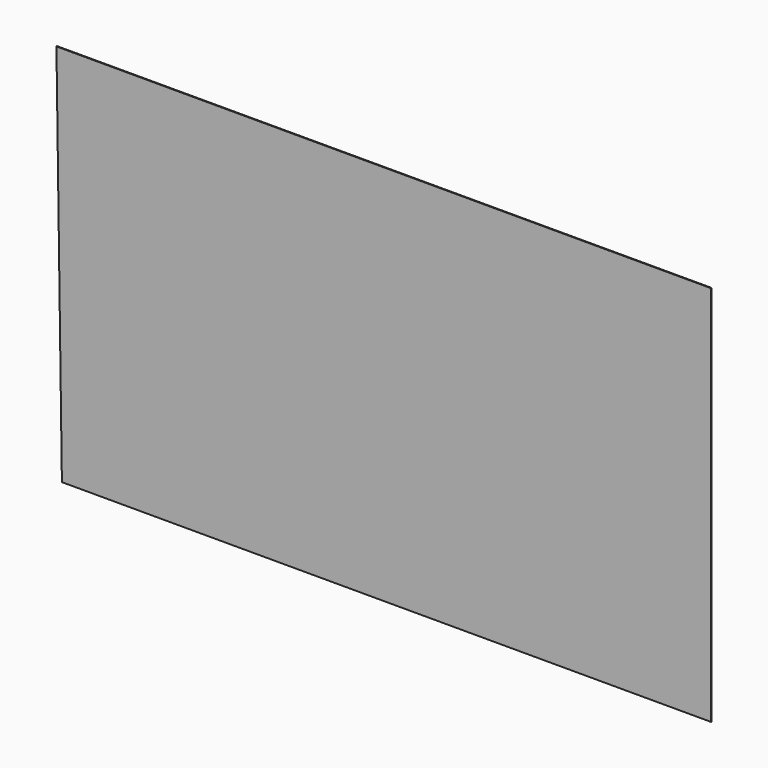
from build123d import *

# Parameters (mm, degrees)
F1_DEPTH = 0.254
F3_DEPTH = 0.0254


with BuildPart() as f1:
    # F0 (on Front) → F1 (new body)
    with BuildSketch(Plane.XZ):
        Polygon((-41.43716, 34.944702), (-60.532626, 35.326611), (-60.532626, 21.195969), (-41.43716, 21.195969), align=None)
    extrude(amount=F1_DEPTH)


with BuildPart() as f3:
    # F2 (on Front) → F3 (new body)
    with BuildSketch(Plane.XZ):
        Polygon((-10.693461, 35.708521), (-33.608019, 35.708521), (-33.417065, 22.341695), (-10.693461, 22.341695), align=None)
    extrude(amount=F3_DEPTH)


solid = f3.part
